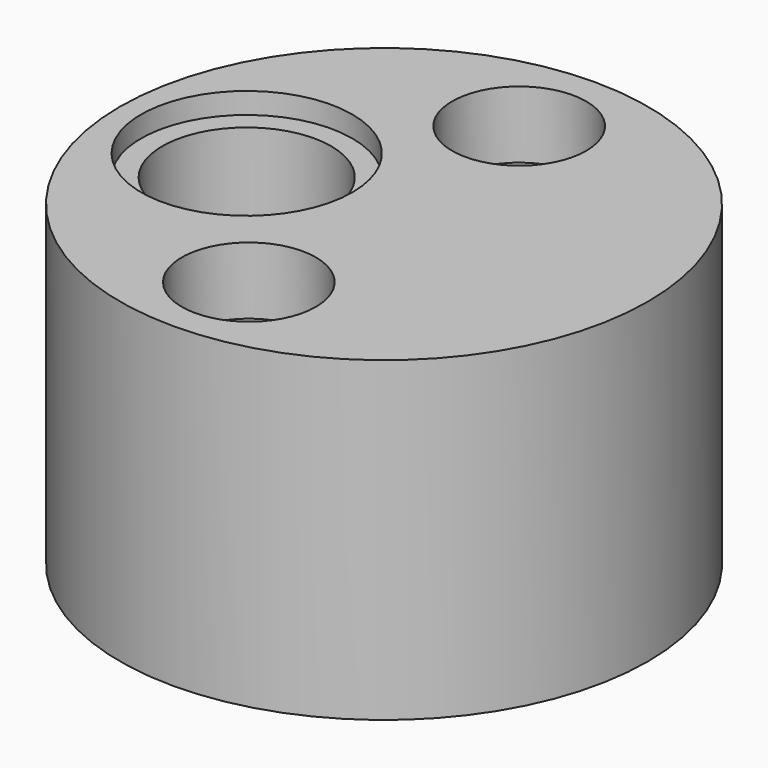
from build123d import *

# Parameters (mm, degrees)
F0_R      = 25
F1_DEPTH  = 30
F2_R      = 1.5
F3_DEPTH  = 5
F4_R      = 6.35
F4_R_2    = 1.4224
F5_DEPTH  = 6.35
F6_DEPTH  = 9.525
F7_DEPTH  = 6.35
F8_DEPTH  = 9.525
F4_R_3    = 8
F9_DEPTH  = 20
F10_R     = 4
F11_DEPTH = 30.001
F4_R_4    = 10
F12_DEPTH = 2


with BuildPart() as f1:
    # F0 (on Top) → F1 (new body)
    with BuildSketch(Plane.XY):
        Circle(F0_R)
    extrude(amount=F1_DEPTH)

    # F2 (on face) → F3 (cut)
    with BuildSketch(Plane(origin=(0, 0, 0), x_dir=(1, 0, 0), z_dir=(0, 0, -1))):
        with Locations((0, 9.525)):
            Circle(F2_R)
        with Locations((-8.248891971, 4.7625)):
            Circle(F2_R)
        with Locations((-8.248891971, -4.7625)):
            Circle(F2_R)
        with Locations((0, -9.525)):
            Circle(F2_R)
        with Locations((8.248891971, -4.7625)):
            Circle(F2_R)
        with Locations((8.248891971, 4.7625)):
            Circle(F2_R)
    extrude(amount=-F3_DEPTH, mode=Mode.SUBTRACT)

    # F4 (on face) → F5 (cut)
    with BuildSketch(Plane.XY.offset(30)):
        with Locations((0, 16)):
            Circle(F4_R)
        with Locations((0, 16)):
            Circle(F4_R_2, mode=Mode.SUBTRACT)
    extrude(amount=-F5_DEPTH, mode=Mode.SUBTRACT)

    # F6 (cut): a face of the model
    f6_faces = [f1.faces().sort_by_distance(p)[0] for p in [
        (0, 16, 30),
    ]]
    extrude(f6_faces, amount=-F6_DEPTH, mode=Mode.SUBTRACT)

    # F4 (on face) → F7 (cut)
    with BuildSketch(Plane.XY.offset(30)):
        with Locations((0, -16)):
            Circle(F4_R)
        with Locations((0, -16)):
            Circle(F4_R_2, mode=Mode.SUBTRACT)
    extrude(amount=-F7_DEPTH, mode=Mode.SUBTRACT)

    # F4 (on face) → F8 (cut)
    with BuildSketch(Plane.XY.offset(30)):
        with Locations((0, -16)):
            Circle(F4_R_2)
    extrude(amount=-F8_DEPTH, mode=Mode.SUBTRACT)

    # F4 (on face) → F9 (cut)
    with BuildSketch(Plane.XY.offset(30)):
        with Locations((-13, 0)):
            Circle(F4_R_3)
    extrude(amount=-F9_DEPTH, mode=Mode.SUBTRACT)

    # F10 (on face) → F11 (cut, through all)
    with BuildSketch(Plane(origin=(0, 0, 0), x_dir=(1, 0, 0), z_dir=(0, 0, -1))):
        with Locations((-17, 0)):
            Circle(F10_R)
    extrude(amount=-F11_DEPTH, mode=Mode.SUBTRACT)

    # F4 (on face) → F12 (cut)
    with BuildSketch(Plane.XY.offset(30)):
        with Locations((-13, 0)):
            Circle(F4_R_4)
        with Locations((-13, 0)):
            Circle(F4_R_3, mode=Mode.SUBTRACT)
    extrude(amount=-F12_DEPTH, mode=Mode.SUBTRACT)


solid = f1.part
